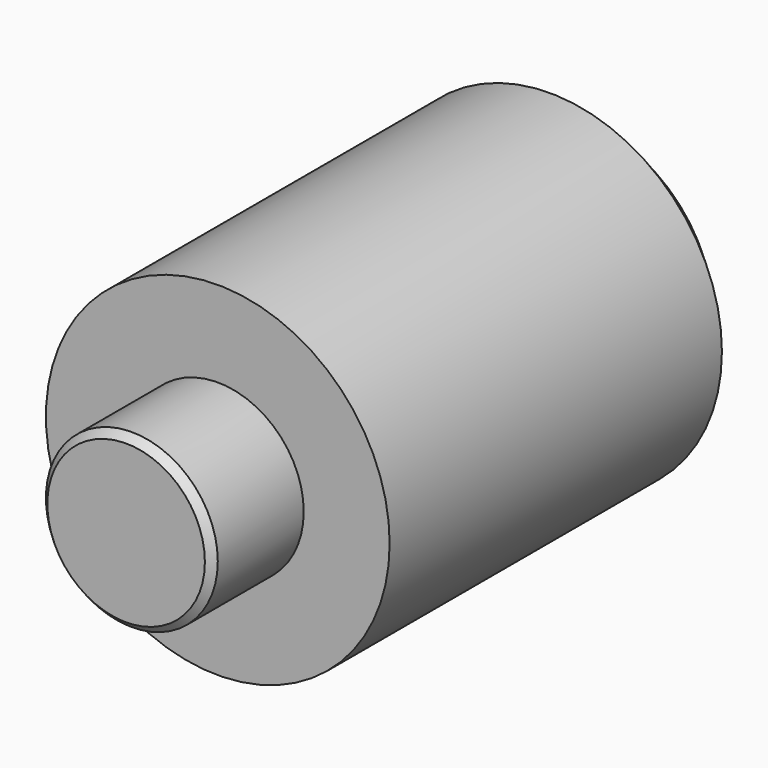
from build123d import *

# Parameters (mm, degrees)
F0_R     = 6
F1_DEPTH = 16
F2_R     = 3
F3_DEPTH = 4
F4_SIZE  = 0.25
F5_SIZE  = 1.5


with BuildPart() as f1:
    # F0 (on Front) → F1 (new body)
    with BuildSketch(Plane.XZ):
        Circle(F0_R)
    extrude(amount=-F1_DEPTH)

    # F2 (on face) → F3 (join)
    with BuildSketch(Plane.XZ):
        Circle(F2_R)
    extrude(amount=F3_DEPTH)

    # F4
    f4_edges = [f1.edges().sort_by_distance(p)[0] for p in [
        (-3, -4, 0),
    ]]
    chamfer(f4_edges, length=F4_SIZE)

    # F5
    f5_edges = [f1.edges().sort_by_distance(p)[0] for p in [
        (-6, 16, 0),
    ]]
    chamfer(f5_edges, length=F5_SIZE)


solid = f1.part
